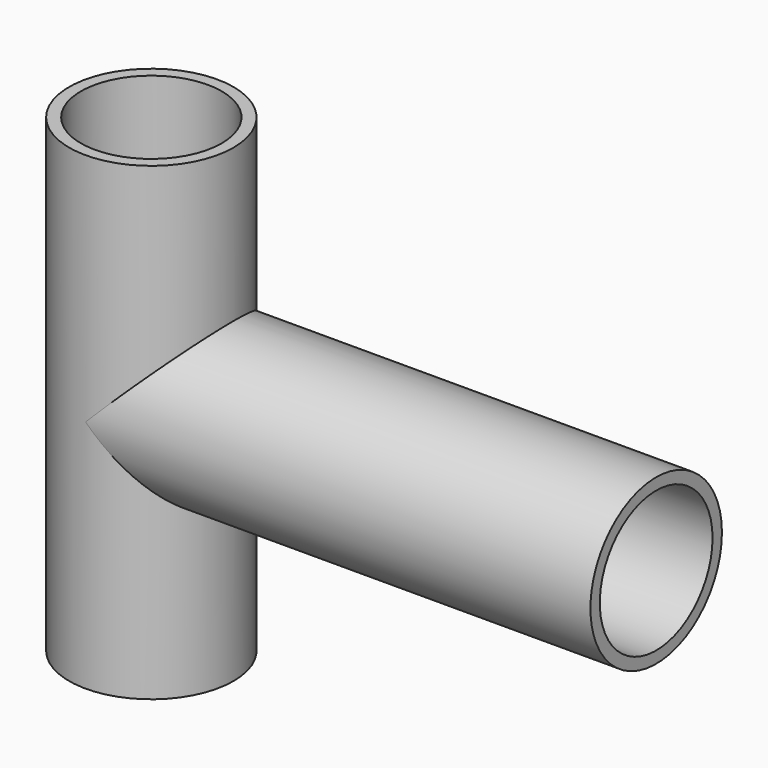
from build123d import *

# Parameters (mm, degrees)
F0_R     = 17.5
F1_DEPTH = 100
F3_R     = 17.5
F4_DEPTH = 107.5
F5_R     = 15
F7_DEPTH = 95
F6_R     = 15
F8_DEPTH = 100


with BuildPart() as f1:
    # F0 (on Top) → F1 (new body)
    with BuildSketch(Plane.XY):
        Circle(F0_R)
    extrude(amount=F1_DEPTH)

    # F3 (on offset) → F4 (join)
    with BuildSketch(Plane.YZ.offset(107.5)):
        with Locations((0, 50)):
            Circle(F3_R)
    extrude(amount=-F4_DEPTH)

    # F5 (on face) → F7 (cut)
    with BuildSketch(Plane.YZ.offset(107.5)):
        with Locations((0, 50)):
            Circle(F5_R)
    extrude(amount=-F7_DEPTH, mode=Mode.SUBTRACT)

    # F6 (on face) → F8 (cut, through all)
    with BuildSketch(Plane.XY.offset(100)):
        Circle(F6_R)
    extrude(amount=-F8_DEPTH, mode=Mode.SUBTRACT)


solid = f1.part
